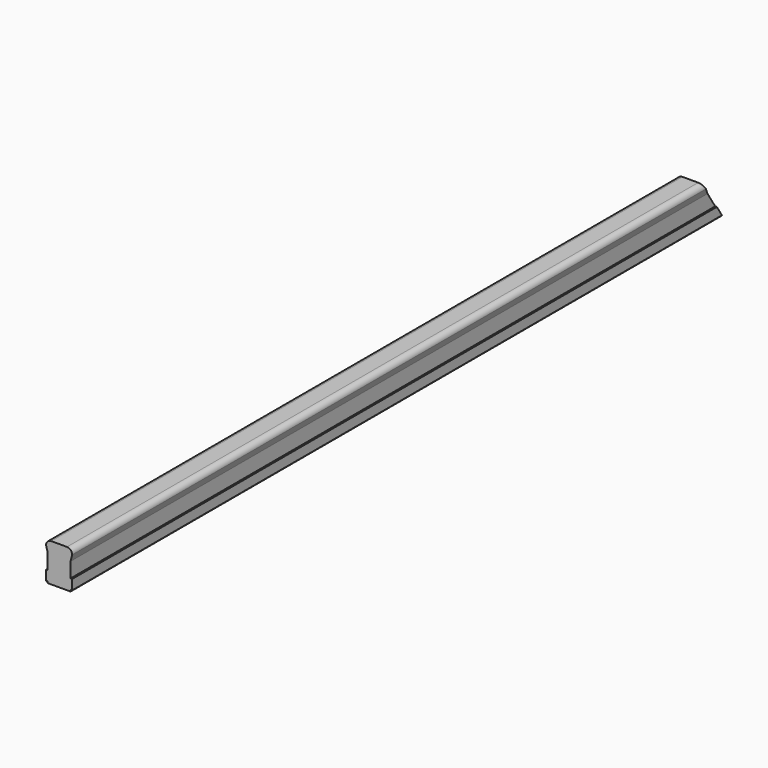
from build123d import *

# Parameters (mm, degrees)
F1_DEPTH      = 1981.2
F3_DEPTH      = 50.8
F3_DEPTH_BACK = 50.8


with BuildPart() as f1:
    # F0 (on Front) → F1 (new body)
    with BuildSketch(Plane.XZ):
        with BuildLine():
            Line((19.05, 44.45), (-19.05, 44.45))
            ThreePointArc((-19.05, 44.45), (-28.0302561211, 40.7302561211), (-31.75, 31.75))
            Line((-31.75, 31.75), (-27.753341943, 16.3911581039))
            Line((-27.753341943, 16.3911581039), (-27.753341943, -20.1871115714))
            Line((-27.753341943, -20.1871115714), (-31.75, -20.1871115714))
            Line((-31.75, -20.1871115714), (-31.75, -44.45))
            Line((-31.75, -44.45), (-27.753341943, -44.45))
            Line((-27.753341943, -44.45), (-27.753341943, -48.3863468898))
            Line((-27.753341943, -48.3863468898), (27.753341943, -48.3863468898))
            Line((27.753341943, -48.3863468898), (27.753341943, -44.45))
            Line((27.753341943, -44.45), (31.75, -44.45))
            Line((31.75, -44.45), (31.75, -20.1871115714))
            Line((31.75, -20.1871115714), (27.753341943, -20.1871115714))
            Line((27.753341943, -20.1871115714), (27.753341943, 16.3911581039))
            Line((27.753341943, 16.3911581039), (31.75, 31.75))
            ThreePointArc((31.75, 31.75), (28.0302561211, 40.7302561211), (19.05, 44.45))
        make_face()
    extrude(amount=F1_DEPTH)

    # F2 (on Right) → F3 (cut, two sides)
    with BuildSketch(Plane.YZ) as f3_sk:
        Polygon((-108.4672547877, 117.6329756228), (0, -52.8168305755), (0, 117.6329756228), align=None)
    extrude(amount=-F3_DEPTH, mode=Mode.SUBTRACT)
    extrude(f3_sk.sketch, amount=F3_DEPTH_BACK, mode=Mode.SUBTRACT)


solid = f1.part
